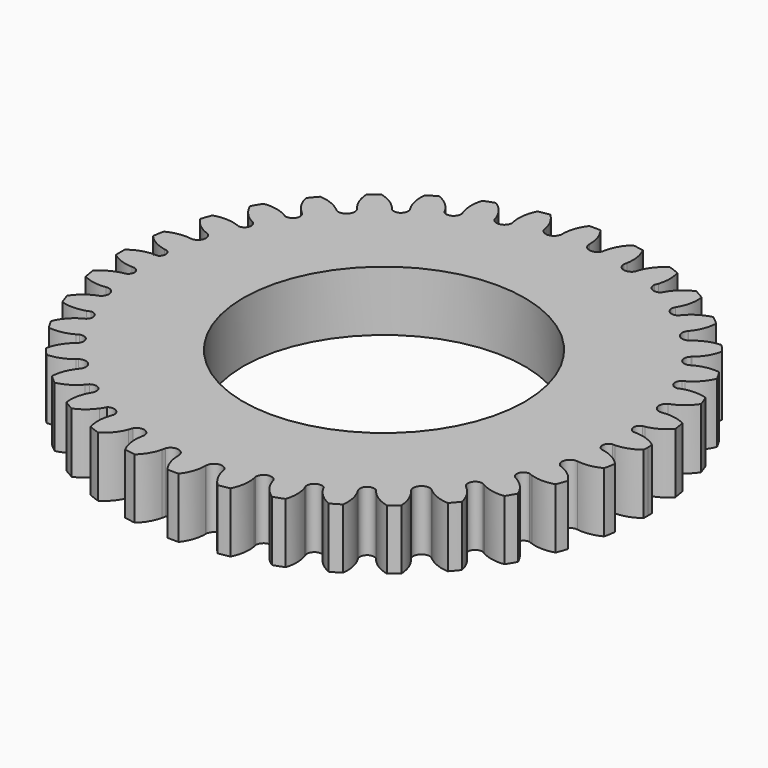
from build123d import *

# Parameters (mm, degrees)
F1_DEPTH = 7
F2_R     = 16.375
F3_DEPTH = 25


with BuildPart() as f1:
    # F0 (on Top) → F1 (new body)
    with BuildSketch(Plane.XY):
        with BuildLine():
            ThreePointArc((1.589816, 27.949109), (1.350318, 29.3954), (0.657394, 30.687286))
            ThreePointArc((0.657394, 30.687286), (0, 30.700002), (-0.657394, 30.687286))
            ThreePointArc((-0.657394, 30.687286), (-1.350318, 29.3954), (-1.589816, 27.949109))
            ThreePointArc((-1.589816, 27.949109), (-1.58895, 27.915115), (-1.5893, 27.881112))
            ThreePointArc((-1.5893, 27.881112), (-2.358232, 26.974563), (-3.410888, 27.526831))
            ThreePointArc((-3.410888, 27.526831), (-3.474454, 27.733461), (-3.489701, 27.949109))
            ThreePointArc((-3.489701, 27.949109), (-3.988437, 29.190421), (-4.830977, 30.229516))
            ThreePointArc((-4.830977, 30.229516), (-5.480592, 30.127884), (-6.12579, 30.001206))
            ThreePointArc((-6.12579, 30.001206), (-6.584452, 28.604749), (-6.5672, 27.135))
            ThreePointArc((-6.5672, 27.135), (-6.515079, 26.97129), (-6.494409, 26.800731))
            ThreePointArc((-6.494409, 26.800731), (-7.136261, 25.901288), (-8.177174, 26.27206))
            ThreePointArc((-8.177174, 26.27206), (-8.285164, 26.498659), (-8.327666, 26.746051))
            ThreePointArc((-8.327666, 26.746051), (-9.045284, 27.989191), (-10.118765, 28.942088))
            ThreePointArc((-10.118765, 28.942088), (-10.740862, 28.729194), (-11.354262, 28.492404))
            ThreePointArc((-11.354262, 28.492404), (-11.56452, 27.131453), (-11.352111, 25.770837))
            ThreePointArc((-11.352111, 25.770837), (-11.247847, 25.572326), (-11.195974, 25.354181))
            ThreePointArc((-11.195974, 25.354181), (-11.640893, 24.478249), (-12.621812, 24.533111))
            ThreePointArc((-12.621812, 24.533111), (-12.866462, 24.805765), (-12.981971, 25.153403))
            ThreePointArc((-12.981971, 25.153403), (-13.856205, 26.092659), (-14.960545, 26.746051))
            ThreePointArc((-14.960545, 26.746051), (-15.536223, 26.428366), (-16.099185, 26.088657))
            ThreePointArc((-16.099185, 26.088657), (-16.033352, 24.527903), (-15.436399, 23.084319))
            ThreePointArc((-15.436399, 23.084319), (-15.622491, 22.040182), (-16.682689, 22.011321))
            ThreePointArc((-16.682689, 22.011321), (-16.825107, 22.150928), (-16.930581, 22.320186))
            ThreePointArc((-16.930581, 22.320186), (-18.021442, 23.223831), (-19.339654, 23.742357))
            ThreePointArc((-19.339654, 23.742357), (-19.85142, 23.329533), (-20.34684, 22.897228))
            ThreePointArc((-20.34684, 22.897228), (-20.046152, 21.459375), (-19.297176, 20.195703))
            ThreePointArc((-19.297176, 20.195703), (-19.282206, 20.178512), (-19.26765, 20.16097))
            ThreePointArc((-19.26765, 20.16097), (-19.301206, 18.915749), (-20.536617, 18.756181))
            ThreePointArc((-20.536617, 18.756181), (-20.635706, 18.830569), (-20.724367, 18.917123))
            ThreePointArc((-20.724367, 18.917123), (-21.962973, 19.628371), (-23.362349, 19.914312))
            ThreePointArc((-23.362349, 19.914312), (-23.794655, 19.418893), (-24.207479, 18.907126))
            ThreePointArc((-24.207479, 18.907126), (-23.658446, 17.538008), (-22.695082, 16.420935))
            ThreePointArc((-22.695082, 16.420935), (-22.665493, 16.397803), (-22.636956, 16.373385))
            ThreePointArc((-22.636956, 16.373385), (-22.474712, 15.304123), (-23.494045, 14.942729))
            ThreePointArc((-23.494045, 14.942729), (-23.638011, 15.011141), (-23.766657, 15.105253))
            ThreePointArc((-23.766657, 15.105253), (-25.102461, 15.582989), (-26.520646, 15.619785))
            ThreePointArc((-26.520646, 15.619785), (-26.860355, 15.056823), (-27.17804, 14.481145))
            ThreePointArc((-27.17804, 14.481145), (-26.38334, 13.209764), (-25.214128, 12.2712))
            ThreePointArc((-25.214128, 12.2712), (-25.092216, 12.220364), (-24.980539, 12.149831))
            ThreePointArc((-24.980539, 12.149831), (-24.722351, 11.237355), (-25.530137, 10.740609))
            ThreePointArc((-25.530137, 10.740609), (-25.738894, 10.790192), (-25.926463, 10.894383))
            ThreePointArc((-25.926463, 10.894383), (-27.314953, 11.125878), (-28.706837, 10.915751))
            ThreePointArc((-28.706837, 10.915751), (-28.943628, 10.302351), (-29.156521, 9.680254))
            ThreePointArc((-29.156521, 9.680254), (-28.131268, 8.548992), (-26.786041, 7.827008))
            ThreePointArc((-26.786041, 7.827008), (-26.431623, 6.725316), (-27.429652, 6.139417))
            ThreePointArc((-27.429652, 6.139417), (-28.839763, 6.12746), (-30.176516, 5.678406))
            ThreePointArc((-30.176516, 5.678406), (-30.303193, 5.033207), (-30.404826, 4.383592))
            ThreePointArc((-30.404826, 4.383592), (-29.301571, 3.504024), (-27.979706, 3.010579))
            ThreePointArc((-27.979706, 3.010579), (-27.843264, 3.000141), (-27.711081, 2.964741))
            ThreePointArc((-27.711081, 2.964741), (-27.229982, 2.322922), (-27.616811, 1.620247))
            ThreePointArc((-27.616811, 1.620247), (-27.726028, 1.57231), (-27.841531, 1.542556))
            ThreePointArc((-27.841531, 1.542556), (-27.969359, 1.531724), (-28.097135, 1.543148))
            ThreePointArc((-28.097135, 1.543148), (-29.481458, 1.285895), (-30.717883, 0.612263))
            ThreePointArc((-30.717883, 0.612263), (-30.726968, 0.306188), (-30.730539, 0))
            ThreePointArc((-30.730539, 0), (-30.726968, -0.306188), (-30.717883, -0.612263))
            ThreePointArc((-30.717883, -0.612263), (-29.481458, -1.285895), (-28.097135, -1.543148))
            ThreePointArc((-28.097135, -1.543148), (-27.969359, -1.531724), (-27.841531, -1.542556))
            ThreePointArc((-27.841531, -1.542556), (-27.726028, -1.57231), (-27.616811, -1.620247))
            ThreePointArc((-27.616811, -1.620247), (-27.229982, -2.322922), (-27.711081, -2.964741))
            ThreePointArc((-27.711081, -2.964741), (-27.843264, -3.000141), (-27.979706, -3.010579))
            ThreePointArc((-27.979706, -3.010579), (-29.301571, -3.504024), (-30.404826, -4.383592))
            ThreePointArc((-30.404826, -4.383592), (-30.303193, -5.033207), (-30.176516, -5.678406))
            ThreePointArc((-30.176516, -5.678406), (-28.839763, -6.12746), (-27.429652, -6.139417))
            ThreePointArc((-27.429652, -6.139417), (-26.431623, -6.725316), (-26.786041, -7.827008))
            ThreePointArc((-26.786041, -7.827008), (-28.131268, -8.548992), (-29.156521, -9.680254))
            ThreePointArc((-29.156521, -9.680254), (-28.943628, -10.302351), (-28.706837, -10.915751))
            ThreePointArc((-28.706837, -10.915751), (-27.314953, -11.125878), (-25.926463, -10.894383))
            ThreePointArc((-25.926463, -10.894383), (-25.738894, -10.790192), (-25.530137, -10.740609))
            ThreePointArc((-25.530137, -10.740609), (-24.722351, -11.237355), (-24.980539, -12.149831))
            ThreePointArc((-24.980539, -12.149831), (-25.092216, -12.220364), (-25.214128, -12.2712))
            ThreePointArc((-25.214128, -12.2712), (-26.38334, -13.209764), (-27.17804, -14.481145))
            ThreePointArc((-27.17804, -14.481145), (-26.860355, -15.056823), (-26.520646, -15.619785))
            ThreePointArc((-26.520646, -15.619785), (-25.102461, -15.582989), (-23.766657, -15.105253))
            ThreePointArc((-23.766657, -15.105253), (-23.638011, -15.011141), (-23.494045, -14.942729))
            ThreePointArc((-23.494045, -14.942729), (-22.474712, -15.304123), (-22.636956, -16.373385))
            ThreePointArc((-22.636956, -16.373385), (-22.665493, -16.397803), (-22.695082, -16.420935))
            ThreePointArc((-22.695082, -16.420935), (-23.658446, -17.538008), (-24.207479, -18.907126))
            ThreePointArc((-24.207479, -18.907126), (-23.794655, -19.418893), (-23.362349, -19.914312))
            ThreePointArc((-23.362349, -19.914312), (-21.962973, -19.628371), (-20.724367, -18.917123))
            ThreePointArc((-20.724367, -18.917123), (-20.635706, -18.830569), (-20.536617, -18.756181))
            ThreePointArc((-20.536617, -18.756181), (-19.301206, -18.915749), (-19.26765, -20.16097))
            ThreePointArc((-19.26765, -20.16097), (-19.282206, -20.178512), (-19.297176, -20.195703))
            ThreePointArc((-19.297176, -20.195703), (-20.046152, -21.459375), (-20.34684, -22.897228))
            ThreePointArc((-20.34684, -22.897228), (-19.85142, -23.329533), (-19.339654, -23.742357))
            ThreePointArc((-19.339654, -23.742357), (-18.021442, -23.223831), (-16.930581, -22.320186))
            ThreePointArc((-16.930581, -22.320186), (-16.825107, -22.150928), (-16.682689, -22.011321))
            ThreePointArc((-16.682689, -22.011321), (-15.622491, -22.040182), (-15.436399, -23.084319))
            ThreePointArc((-15.436399, -23.084319), (-16.033352, -24.527903), (-16.099185, -26.088657))
            ThreePointArc((-16.099185, -26.088657), (-15.536223, -26.428366), (-14.960545, -26.746051))
            ThreePointArc((-14.960545, -26.746051), (-13.856205, -26.092659), (-12.981971, -25.153403))
            ThreePointArc((-12.981971, -25.153403), (-12.866462, -24.805765), (-12.621812, -24.533111))
            ThreePointArc((-12.621812, -24.533111), (-11.640893, -24.478249), (-11.195974, -25.354181))
            ThreePointArc((-11.195974, -25.354181), (-11.247847, -25.572326), (-11.352111, -25.770837))
            ThreePointArc((-11.352111, -25.770837), (-11.56452, -27.131453), (-11.354262, -28.492404))
            ThreePointArc((-11.354262, -28.492404), (-10.740862, -28.729194), (-10.118765, -28.942088))
            ThreePointArc((-10.118765, -28.942088), (-9.045284, -27.989191), (-8.327666, -26.746051))
            ThreePointArc((-8.327666, -26.746051), (-8.285164, -26.498659), (-8.177174, -26.27206))
            ThreePointArc((-8.177174, -26.27206), (-7.136261, -25.901288), (-6.494409, -26.800731))
            ThreePointArc((-6.494409, -26.800731), (-6.515079, -26.97129), (-6.5672, -27.135))
            ThreePointArc((-6.5672, -27.135), (-6.584452, -28.604749), (-6.12579, -30.001206))
            ThreePointArc((-6.12579, -30.001206), (-5.480592, -30.127884), (-4.830977, -30.229516))
            ThreePointArc((-4.830977, -30.229516), (-3.988437, -29.190421), (-3.489701, -27.949109))
            ThreePointArc((-3.489701, -27.949109), (-3.474454, -27.733461), (-3.410888, -27.526831))
            ThreePointArc((-3.410888, -27.526831), (-2.358232, -26.974563), (-1.5893, -27.881112))
            ThreePointArc((-1.5893, -27.881112), (-1.58895, -27.915115), (-1.589816, -27.949109))
            ThreePointArc((-1.589816, -27.949109), (-1.350318, -29.3954), (-0.657394, -30.687286))
            ThreePointArc((-0.657394, -30.687286), (0, -30.700002), (0.657394, -30.687286))
            ThreePointArc((0.657394, -30.687286), (1.350318, -29.3954), (1.589816, -27.949109))
            ThreePointArc((1.589816, -27.949109), (1.58895, -27.915115), (1.5893, -27.881112))
            ThreePointArc((1.5893, -27.881112), (2.358232, -26.974563), (3.410888, -27.526831))
            ThreePointArc((3.410888, -27.526831), (3.474454, -27.733461), (3.489701, -27.949109))
            ThreePointArc((3.489701, -27.949109), (3.988437, -29.190421), (4.830977, -30.229516))
            ThreePointArc((4.830977, -30.229516), (5.480592, -30.127884), (6.12579, -30.001206))
            ThreePointArc((6.12579, -30.001206), (6.584452, -28.604749), (6.5672, -27.135))
            ThreePointArc((6.5672, -27.135), (6.515079, -26.97129), (6.494409, -26.800731))
            ThreePointArc((6.494409, -26.800731), (7.136261, -25.901288), (8.177174, -26.27206))
            ThreePointArc((8.177174, -26.27206), (8.285164, -26.498659), (8.327666, -26.746051))
            ThreePointArc((8.327666, -26.746051), (9.045284, -27.989191), (10.118765, -28.942088))
            ThreePointArc((10.118765, -28.942088), (10.740862, -28.729194), (11.354262, -28.492404))
            ThreePointArc((11.354262, -28.492404), (11.56452, -27.131453), (11.352111, -25.770837))
            ThreePointArc((11.352111, -25.770837), (11.247847, -25.572326), (11.195974, -25.354181))
            ThreePointArc((11.195974, -25.354181), (11.640893, -24.478249), (12.621812, -24.533111))
            ThreePointArc((12.621812, -24.533111), (12.866462, -24.805765), (12.981971, -25.153403))
            ThreePointArc((12.981971, -25.153403), (13.856205, -26.092659), (14.960545, -26.746051))
            ThreePointArc((14.960545, -26.746051), (15.536223, -26.428366), (16.099185, -26.088657))
            ThreePointArc((16.099185, -26.088657), (16.033352, -24.527903), (15.436399, -23.084319))
            ThreePointArc((15.436399, -23.084319), (15.622491, -22.040182), (16.682689, -22.011321))
            ThreePointArc((16.682689, -22.011321), (16.825107, -22.150928), (16.930581, -22.320186))
            ThreePointArc((16.930581, -22.320186), (18.021442, -23.223831), (19.339654, -23.742357))
            ThreePointArc((19.339654, -23.742357), (19.85142, -23.329533), (20.34684, -22.897228))
            ThreePointArc((20.34684, -22.897228), (20.046152, -21.459375), (19.297176, -20.195703))
            ThreePointArc((19.297176, -20.195703), (19.282206, -20.178512), (19.26765, -20.16097))
            ThreePointArc((19.26765, -20.16097), (19.301206, -18.915749), (20.536617, -18.756181))
            ThreePointArc((20.536617, -18.756181), (20.635706, -18.830569), (20.724367, -18.917123))
            ThreePointArc((20.724367, -18.917123), (21.962973, -19.628371), (23.362349, -19.914312))
            ThreePointArc((23.362349, -19.914312), (23.794655, -19.418893), (24.207479, -18.907126))
            ThreePointArc((24.207479, -18.907126), (23.658446, -17.538008), (22.695082, -16.420935))
            ThreePointArc((22.695082, -16.420935), (22.665493, -16.397803), (22.636956, -16.373385))
            ThreePointArc((22.636956, -16.373385), (22.474712, -15.304123), (23.494045, -14.942729))
            ThreePointArc((23.494045, -14.942729), (23.638011, -15.011141), (23.766657, -15.105253))
            ThreePointArc((23.766657, -15.105253), (25.102461, -15.582989), (26.520646, -15.619785))
            ThreePointArc((26.520646, -15.619785), (26.860355, -15.056823), (27.17804, -14.481145))
            ThreePointArc((27.17804, -14.481145), (26.38334, -13.209764), (25.214128, -12.2712))
            ThreePointArc((25.214128, -12.2712), (25.092216, -12.220364), (24.980539, -12.149831))
            ThreePointArc((24.980539, -12.149831), (24.722351, -11.237355), (25.530137, -10.740609))
            ThreePointArc((25.530137, -10.740609), (25.738894, -10.790192), (25.926463, -10.894383))
            ThreePointArc((25.926463, -10.894383), (27.314953, -11.125878), (28.706837, -10.915751))
            ThreePointArc((28.706837, -10.915751), (28.943628, -10.302351), (29.156521, -9.680254))
            ThreePointArc((29.156521, -9.680254), (28.131268, -8.548992), (26.786041, -7.827008))
            ThreePointArc((26.786041, -7.827008), (26.431623, -6.725316), (27.429652, -6.139417))
            ThreePointArc((27.429652, -6.139417), (28.839763, -6.12746), (30.176516, -5.678406))
            ThreePointArc((30.176516, -5.678406), (30.303193, -5.033207), (30.404826, -4.383592))
            ThreePointArc((30.404826, -4.383592), (29.301571, -3.504024), (27.979706, -3.010579))
            ThreePointArc((27.979706, -3.010579), (27.843264, -3.000141), (27.711081, -2.964741))
            ThreePointArc((27.711081, -2.964741), (27.231262, -2.203655), (27.841531, -1.542556))
            ThreePointArc((27.841531, -1.542556), (27.969359, -1.531724), (28.097135, -1.543148))
            ThreePointArc((28.097135, -1.543148), (29.481458, -1.285895), (30.717883, -0.612263))
            ThreePointArc((30.717883, -0.612263), (30.726968, -0.306188), (30.730539, 0))
            ThreePointArc((30.730539, 0), (30.726968, 0.306188), (30.717883, 0.612263))
            ThreePointArc((30.717883, 0.612263), (29.481458, 1.285895), (28.097135, 1.543148))
            ThreePointArc((28.097135, 1.543148), (27.969359, 1.531724), (27.841531, 1.542556))
            ThreePointArc((27.841531, 1.542556), (27.231262, 2.203655), (27.711081, 2.964741))
            ThreePointArc((27.711081, 2.964741), (27.843264, 3.000141), (27.979706, 3.010579))
            ThreePointArc((27.979706, 3.010579), (29.301571, 3.504024), (30.404826, 4.383592))
            ThreePointArc((30.404826, 4.383592), (30.303193, 5.033207), (30.176516, 5.678406))
            ThreePointArc((30.176516, 5.678406), (28.839763, 6.12746), (27.429652, 6.139417))
            ThreePointArc((27.429652, 6.139417), (26.431623, 6.725316), (26.786041, 7.827008))
            ThreePointArc((26.786041, 7.827008), (28.131268, 8.548992), (29.156521, 9.680254))
            ThreePointArc((29.156521, 9.680254), (28.943628, 10.302351), (28.706837, 10.915751))
            ThreePointArc((28.706837, 10.915751), (27.314953, 11.125878), (25.926463, 10.894383))
            ThreePointArc((25.926463, 10.894383), (25.738894, 10.790192), (25.530137, 10.740609))
            ThreePointArc((25.530137, 10.740609), (24.722351, 11.237355), (24.980539, 12.149831))
            ThreePointArc((24.980539, 12.149831), (25.092216, 12.220364), (25.214128, 12.2712))
            ThreePointArc((25.214128, 12.2712), (26.38334, 13.209764), (27.17804, 14.481145))
            ThreePointArc((27.17804, 14.481145), (26.860355, 15.056823), (26.520646, 15.619785))
            ThreePointArc((26.520646, 15.619785), (25.102461, 15.582989), (23.766657, 15.105253))
            ThreePointArc((23.766657, 15.105253), (23.638011, 15.011141), (23.494045, 14.942729))
            ThreePointArc((23.494045, 14.942729), (22.474712, 15.304123), (22.636956, 16.373385))
            ThreePointArc((22.636956, 16.373385), (22.665493, 16.397803), (22.695082, 16.420935))
            ThreePointArc((22.695082, 16.420935), (23.658446, 17.538008), (24.207479, 18.907126))
            ThreePointArc((24.207479, 18.907126), (23.794655, 19.418893), (23.362349, 19.914312))
            ThreePointArc((23.362349, 19.914312), (21.962973, 19.628371), (20.724367, 18.917123))
            ThreePointArc((20.724367, 18.917123), (20.635706, 18.830569), (20.536617, 18.756181))
            ThreePointArc((20.536617, 18.756181), (19.301206, 18.915749), (19.26765, 20.16097))
            ThreePointArc((19.26765, 20.16097), (19.282206, 20.178512), (19.297176, 20.195703))
            ThreePointArc((19.297176, 20.195703), (20.046152, 21.459375), (20.34684, 22.897228))
            ThreePointArc((20.34684, 22.897228), (19.85142, 23.329533), (19.339654, 23.742357))
            ThreePointArc((19.339654, 23.742357), (18.021442, 23.223831), (16.930581, 22.320186))
            ThreePointArc((16.930581, 22.320186), (16.825107, 22.150928), (16.682689, 22.011321))
            ThreePointArc((16.682689, 22.011321), (15.622491, 22.040182), (15.436399, 23.084319))
            ThreePointArc((15.436399, 23.084319), (16.033352, 24.527903), (16.099185, 26.088657))
            ThreePointArc((16.099185, 26.088657), (15.536223, 26.428366), (14.960545, 26.746051))
            ThreePointArc((14.960545, 26.746051), (13.856205, 26.092659), (12.981971, 25.153403))
            ThreePointArc((12.981971, 25.153403), (12.866462, 24.805765), (12.621812, 24.533111))
            ThreePointArc((12.621812, 24.533111), (11.640893, 24.478249), (11.195974, 25.354181))
            ThreePointArc((11.195974, 25.354181), (11.247847, 25.572326), (11.352111, 25.770837))
            ThreePointArc((11.352111, 25.770837), (11.56452, 27.131453), (11.354262, 28.492404))
            ThreePointArc((11.354262, 28.492404), (10.740862, 28.729194), (10.118765, 28.942088))
            ThreePointArc((10.118765, 28.942088), (9.045284, 27.989191), (8.327666, 26.746051))
            ThreePointArc((8.327666, 26.746051), (8.285164, 26.498659), (8.177174, 26.27206))
            ThreePointArc((8.177174, 26.27206), (7.136261, 25.901288), (6.494409, 26.800731))
            ThreePointArc((6.494409, 26.800731), (6.515079, 26.97129), (6.5672, 27.135))
            ThreePointArc((6.5672, 27.135), (6.584452, 28.604749), (6.12579, 30.001206))
            ThreePointArc((6.12579, 30.001206), (5.480592, 30.127884), (4.830977, 30.229516))
            ThreePointArc((4.830977, 30.229516), (3.988437, 29.190421), (3.489701, 27.949109))
            ThreePointArc((3.489701, 27.949109), (3.474454, 27.733461), (3.410888, 27.526831))
            ThreePointArc((3.410888, 27.526831), (2.358232, 26.974563), (1.5893, 27.881112))
            ThreePointArc((1.5893, 27.881112), (1.58895, 27.915115), (1.589816, 27.949109))
        make_face()
        with BuildLine():
            ThreePointArc((1.5893, 27.881112), (1.589687, 27.91511), (1.589816, 27.949109))
            ThreePointArc((1.589816, 27.949109), (1.58895, 27.915115), (1.5893, 27.881112))
        make_face()
        with BuildLine():
            ThreePointArc((-1.5893, 27.881112), (-1.58895, 27.915115), (-1.589816, 27.949109))
            ThreePointArc((-1.589816, 27.949109), (-1.589687, 27.91511), (-1.5893, 27.881112))
        make_face()
        with BuildLine():
            ThreePointArc((3.489701, 27.949109), (3.445238, 27.738914), (3.410888, 27.526831))
            ThreePointArc((3.410888, 27.526831), (3.474454, 27.733461), (3.489701, 27.949109))
        make_face()
        with BuildLine():
            ThreePointArc((-3.489701, 27.949109), (-3.474454, 27.733461), (-3.410888, 27.526831))
            ThreePointArc((-3.410888, 27.526831), (-3.445238, 27.738914), (-3.489701, 27.949109))
        make_face()
        with BuildLine():
            ThreePointArc((6.494409, 26.800731), (6.533992, 26.967171), (6.5672, 27.135))
            ThreePointArc((6.5672, 27.135), (6.515079, 26.97129), (6.494409, 26.800731))
        make_face()
        with BuildLine():
            ThreePointArc((-6.494409, 26.800731), (-6.515079, 26.97129), (-6.5672, 27.135))
            ThreePointArc((-6.5672, 27.135), (-6.533992, 26.967171), (-6.494409, 26.800731))
        make_face()
        with BuildLine():
            ThreePointArc((8.327666, 26.746051), (8.245848, 26.511142), (8.177174, 26.27206))
            ThreePointArc((8.177174, 26.27206), (8.285164, 26.498659), (8.327666, 26.746051))
        make_face()
        with BuildLine():
            ThreePointArc((-8.327666, 26.746051), (-8.285164, 26.498659), (-8.177174, 26.27206))
            ThreePointArc((-8.177174, 26.27206), (-8.245848, 26.511142), (-8.327666, 26.746051))
        make_face()
        with BuildLine():
            ThreePointArc((11.195974, 25.354181), (11.27921, 25.560573), (11.352111, 25.770837))
            ThreePointArc((11.352111, 25.770837), (11.247847, 25.572326), (11.195974, 25.354181))
        make_face()
        with BuildLine():
            ThreePointArc((-11.195974, 25.354181), (-11.247847, 25.572326), (-11.352111, 25.770837))
            ThreePointArc((-11.352111, 25.770837), (-11.27921, 25.560573), (-11.195974, 25.354181))
        make_face()
        with BuildLine():
            ThreePointArc((12.981971, 25.153403), (12.789476, 24.850465), (12.621812, 24.533111))
            ThreePointArc((12.621812, 24.533111), (12.866462, 24.805765), (12.981971, 25.153403))
        make_face()
        with BuildLine():
            ThreePointArc((-12.981971, 25.153403), (-12.866462, 24.805765), (-12.621812, 24.533111))
            ThreePointArc((-12.621812, 24.533111), (-12.789476, 24.850465), (-12.981971, 25.153403))
        make_face()
        with BuildLine():
            ThreePointArc((16.930581, 22.320186), (16.803226, 22.16849), (16.682689, 22.011321))
            ThreePointArc((16.682689, 22.011321), (16.825107, 22.150928), (16.930581, 22.320186))
        make_face()
        with BuildLine():
            ThreePointArc((-16.930581, 22.320186), (-16.825107, 22.150928), (-16.682689, 22.011321))
            ThreePointArc((-16.682689, 22.011321), (-16.803226, 22.16849), (-16.930581, 22.320186))
        make_face()
        with BuildLine():
            ThreePointArc((19.26765, 20.16097), (19.282457, 20.178299), (19.297176, 20.195703))
            ThreePointArc((19.297176, 20.195703), (19.282206, 20.178512), (19.26765, 20.16097))
        make_face()
        with BuildLine():
            ThreePointArc((-19.26765, 20.16097), (-19.282206, 20.178512), (-19.297176, 20.195703))
            ThreePointArc((-19.297176, 20.195703), (-19.282457, 20.178299), (-19.26765, 20.16097))
        make_face()
        with BuildLine():
            ThreePointArc((20.724367, 18.917123), (20.629383, 18.837946), (20.536617, 18.756181))
            ThreePointArc((20.536617, 18.756181), (20.635706, 18.830569), (20.724367, 18.917123))
        make_face()
        with BuildLine():
            ThreePointArc((-20.724367, 18.917123), (-20.635706, 18.830569), (-20.536617, 18.756181))
            ThreePointArc((-20.536617, 18.756181), (-20.629383, 18.837946), (-20.724367, 18.917123))
        make_face()
        with BuildLine():
            ThreePointArc((22.636956, 16.373385), (22.666119, 16.397038), (22.695082, 16.420935))
            ThreePointArc((22.695082, 16.420935), (22.665493, 16.397803), (22.636956, 16.373385))
        make_face()
        with BuildLine():
            ThreePointArc((-22.636956, 16.373385), (-22.665493, 16.397803), (-22.695082, 16.420935))
            ThreePointArc((-22.695082, 16.420935), (-22.666119, 16.397038), (-22.636956, 16.373385))
        make_face()
        with BuildLine():
            ThreePointArc((23.766657, 15.105253), (23.628913, 15.026402), (23.494045, 14.942729))
            ThreePointArc((23.494045, 14.942729), (23.638011, 15.011141), (23.766657, 15.105253))
        make_face()
        with BuildLine():
            ThreePointArc((-23.766657, 15.105253), (-23.638011, 15.011141), (-23.494045, 14.942729))
            ThreePointArc((-23.494045, 14.942729), (-23.628913, 15.026402), (-23.766657, 15.105253))
        make_face()
        with BuildLine():
            ThreePointArc((24.980539, 12.149831), (25.098224, 12.208802), (25.214128, 12.2712))
            ThreePointArc((25.214128, 12.2712), (25.092216, 12.220364), (24.980539, 12.149831))
        make_face()
        with BuildLine():
            ThreePointArc((-24.980539, 12.149831), (-25.092216, 12.220364), (-25.214128, 12.2712))
            ThreePointArc((-25.214128, 12.2712), (-25.098224, 12.208802), (-24.980539, 12.149831))
        make_face()
        with BuildLine():
            ThreePointArc((25.926463, 10.894383), (25.726478, 10.822193), (25.530137, 10.740609))
            ThreePointArc((25.530137, 10.740609), (25.738894, 10.790192), (25.926463, 10.894383))
        make_face()
        with BuildLine():
            ThreePointArc((-25.926463, 10.894383), (-25.738894, 10.790192), (-25.530137, 10.740609))
            ThreePointArc((-25.530137, 10.740609), (-25.726478, 10.822193), (-25.926463, 10.894383))
        make_face()
        with BuildLine():
            ThreePointArc((27.711081, 2.964741), (27.845742, 2.98562), (27.979706, 3.010579))
            ThreePointArc((27.979706, 3.010579), (27.843264, 3.000141), (27.711081, 2.964741))
        make_face()
        with BuildLine():
            ThreePointArc((-27.711081, 2.964741), (-27.843264, 3.000141), (-27.979706, 3.010579))
            ThreePointArc((-27.979706, 3.010579), (-27.845742, 2.98562), (-27.711081, 2.964741))
        make_face()
        with BuildLine():
            ThreePointArc((28.097135, 1.543148), (27.969329, 1.544672), (27.841531, 1.542556))
            ThreePointArc((27.841531, 1.542556), (27.969359, 1.531724), (28.097135, 1.543148))
        make_face()
        with BuildLine():
            ThreePointArc((-27.841531, 1.542556), (-27.726028, 1.57231), (-27.616811, 1.620247))
            ThreePointArc((-27.616811, 1.620247), (-29.252908, 1.450507), (-30.717883, 0.702525))
            ThreePointArc((-30.717883, 0.702525), (-30.727841, 0.351328), (-30.730539, 0))
            ThreePointArc((-30.730539, 0), (-30.726968, 0.306188), (-30.717883, 0.612263))
            ThreePointArc((-30.717883, 0.612263), (-29.481458, 1.285895), (-28.097135, 1.543148))
            ThreePointArc((-28.097135, 1.543148), (-27.969329, 1.544672), (-27.841531, 1.542556))
        make_face()
        with BuildLine():
            ThreePointArc((-27.841531, -1.542556), (-27.969359, -1.531724), (-28.097135, -1.543148))
            ThreePointArc((-28.097135, -1.543148), (-27.969329, -1.544672), (-27.841531, -1.542556))
        make_face()
        with BuildLine():
            ThreePointArc((27.841531, -1.542556), (27.969329, -1.544672), (28.097135, -1.543148))
            ThreePointArc((28.097135, -1.543148), (27.969359, -1.531724), (27.841531, -1.542556))
        make_face()
        with BuildLine():
            ThreePointArc((27.979706, -3.010579), (27.845742, -2.98562), (27.711081, -2.964741))
            ThreePointArc((27.711081, -2.964741), (27.843264, -3.000141), (27.979706, -3.010579))
        make_face()
        with BuildLine():
            ThreePointArc((-27.979706, -3.010579), (-27.843264, -3.000141), (-27.711081, -2.964741))
            ThreePointArc((-27.711081, -2.964741), (-27.845742, -2.98562), (-27.979706, -3.010579))
        make_face()
        with BuildLine():
            ThreePointArc((25.530137, -10.740609), (25.726478, -10.822193), (25.926463, -10.894383))
            ThreePointArc((25.926463, -10.894383), (25.738894, -10.790192), (25.530137, -10.740609))
        make_face()
        with BuildLine():
            ThreePointArc((-25.530137, -10.740609), (-25.738894, -10.790192), (-25.926463, -10.894383))
            ThreePointArc((-25.926463, -10.894383), (-25.726478, -10.822193), (-25.530137, -10.740609))
        make_face()
        with BuildLine():
            ThreePointArc((25.214128, -12.2712), (25.098224, -12.208802), (24.980539, -12.149831))
            ThreePointArc((24.980539, -12.149831), (25.092216, -12.220364), (25.214128, -12.2712))
        make_face()
        with BuildLine():
            ThreePointArc((-25.214128, -12.2712), (-25.092216, -12.220364), (-24.980539, -12.149831))
            ThreePointArc((-24.980539, -12.149831), (-25.098224, -12.208802), (-25.214128, -12.2712))
        make_face()
        with BuildLine():
            ThreePointArc((23.494045, -14.942729), (23.628913, -15.026402), (23.766657, -15.105253))
            ThreePointArc((23.766657, -15.105253), (23.638011, -15.011141), (23.494045, -14.942729))
        make_face()
        with BuildLine():
            ThreePointArc((-23.494045, -14.942729), (-23.638011, -15.011141), (-23.766657, -15.105253))
            ThreePointArc((-23.766657, -15.105253), (-23.628913, -15.026402), (-23.494045, -14.942729))
        make_face()
        with BuildLine():
            ThreePointArc((22.695082, -16.420935), (22.666119, -16.397038), (22.636956, -16.373385))
            ThreePointArc((22.636956, -16.373385), (22.665493, -16.397803), (22.695082, -16.420935))
        make_face()
        with BuildLine():
            ThreePointArc((-22.695082, -16.420935), (-22.665493, -16.397803), (-22.636956, -16.373385))
            ThreePointArc((-22.636956, -16.373385), (-22.666119, -16.397038), (-22.695082, -16.420935))
        make_face()
        with BuildLine():
            ThreePointArc((20.536617, -18.756181), (20.629383, -18.837946), (20.724367, -18.917123))
            ThreePointArc((20.724367, -18.917123), (20.635706, -18.830569), (20.536617, -18.756181))
        make_face()
        with BuildLine():
            ThreePointArc((-20.536617, -18.756181), (-20.635706, -18.830569), (-20.724367, -18.917123))
            ThreePointArc((-20.724367, -18.917123), (-20.629383, -18.837946), (-20.536617, -18.756181))
        make_face()
        with BuildLine():
            ThreePointArc((19.297176, -20.195703), (19.282457, -20.178299), (19.26765, -20.16097))
            ThreePointArc((19.26765, -20.16097), (19.282206, -20.178512), (19.297176, -20.195703))
        make_face()
        with BuildLine():
            ThreePointArc((-19.297176, -20.195703), (-19.282206, -20.178512), (-19.26765, -20.16097))
            ThreePointArc((-19.26765, -20.16097), (-19.282457, -20.178299), (-19.297176, -20.195703))
        make_face()
        with BuildLine():
            ThreePointArc((16.682689, -22.011321), (16.803226, -22.16849), (16.930581, -22.320186))
            ThreePointArc((16.930581, -22.320186), (16.825107, -22.150928), (16.682689, -22.011321))
        make_face()
        with BuildLine():
            ThreePointArc((-16.682689, -22.011321), (-16.825107, -22.150928), (-16.930581, -22.320186))
            ThreePointArc((-16.930581, -22.320186), (-16.803226, -22.16849), (-16.682689, -22.011321))
        make_face()
        with BuildLine():
            ThreePointArc((12.621812, -24.533111), (12.789476, -24.850465), (12.981971, -25.153403))
            ThreePointArc((12.981971, -25.153403), (12.866462, -24.805765), (12.621812, -24.533111))
        make_face()
        with BuildLine():
            ThreePointArc((-12.621812, -24.533111), (-12.866462, -24.805765), (-12.981971, -25.153403))
            ThreePointArc((-12.981971, -25.153403), (-12.789476, -24.850465), (-12.621812, -24.533111))
        make_face()
        with BuildLine():
            ThreePointArc((11.352111, -25.770837), (11.27921, -25.560573), (11.195974, -25.354181))
            ThreePointArc((11.195974, -25.354181), (11.247847, -25.572326), (11.352111, -25.770837))
        make_face()
        with BuildLine():
            ThreePointArc((-11.352111, -25.770837), (-11.247847, -25.572326), (-11.195974, -25.354181))
            ThreePointArc((-11.195974, -25.354181), (-11.27921, -25.560573), (-11.352111, -25.770837))
        make_face()
        with BuildLine():
            ThreePointArc((8.177174, -26.27206), (8.245848, -26.511142), (8.327666, -26.746051))
            ThreePointArc((8.327666, -26.746051), (8.285164, -26.498659), (8.177174, -26.27206))
        make_face()
        with BuildLine():
            ThreePointArc((-8.177174, -26.27206), (-8.285164, -26.498659), (-8.327666, -26.746051))
            ThreePointArc((-8.327666, -26.746051), (-8.245848, -26.511142), (-8.177174, -26.27206))
        make_face()
        with BuildLine():
            ThreePointArc((6.5672, -27.135), (6.533992, -26.967171), (6.494409, -26.800731))
            ThreePointArc((6.494409, -26.800731), (6.515079, -26.97129), (6.5672, -27.135))
        make_face()
        with BuildLine():
            ThreePointArc((-6.5672, -27.135), (-6.515079, -26.97129), (-6.494409, -26.800731))
            ThreePointArc((-6.494409, -26.800731), (-6.533992, -26.967171), (-6.5672, -27.135))
        make_face()
        with BuildLine():
            ThreePointArc((3.410888, -27.526831), (3.445238, -27.738914), (3.489701, -27.949109))
            ThreePointArc((3.489701, -27.949109), (3.474454, -27.733461), (3.410888, -27.526831))
        make_face()
        with BuildLine():
            ThreePointArc((-3.410888, -27.526831), (-3.474454, -27.733461), (-3.489701, -27.949109))
            ThreePointArc((-3.489701, -27.949109), (-3.445238, -27.738914), (-3.410888, -27.526831))
        make_face()
        with BuildLine():
            ThreePointArc((1.589816, -27.949109), (1.589687, -27.91511), (1.5893, -27.881112))
            ThreePointArc((1.5893, -27.881112), (1.58895, -27.915115), (1.589816, -27.949109))
        make_face()
        with BuildLine():
            ThreePointArc((-1.589816, -27.949109), (-1.58895, -27.915115), (-1.5893, -27.881112))
            ThreePointArc((-1.5893, -27.881112), (-1.589687, -27.91511), (-1.589816, -27.949109))
        make_face()
    extrude(amount=F1_DEPTH)

    # F2 (on face) → F3 (cut)
    with BuildSketch(Plane.XY.offset(7)):
        Circle(F2_R)
    extrude(amount=-F3_DEPTH, mode=Mode.SUBTRACT)


solid = f1.part
